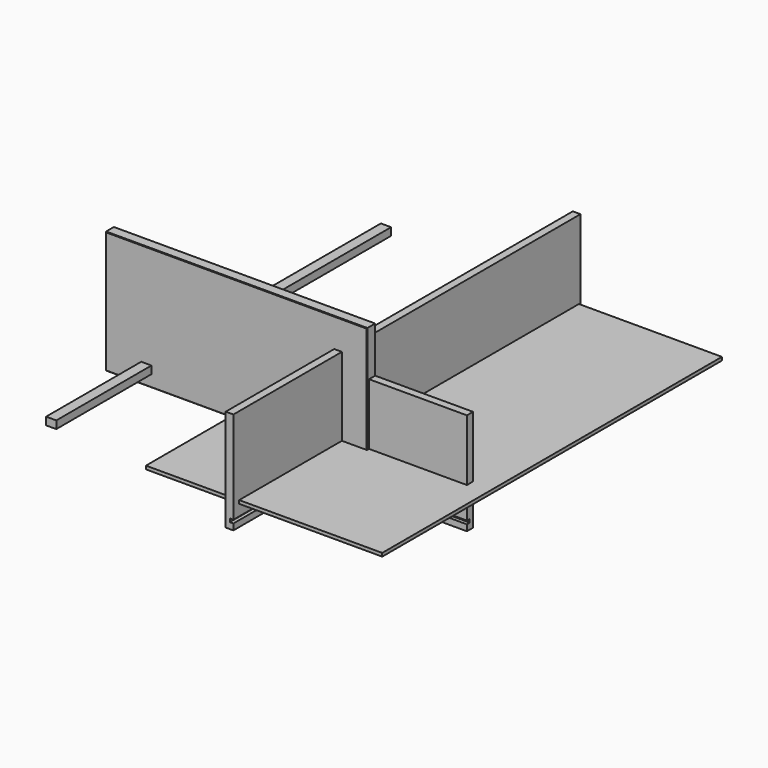
from build123d import *

# Parameters (mm, degrees)
F0_W      = 512
F0_H      = 240
F1_DEPTH  = 20
F2_SIZE   = 1
F3_W      = 850
F3_H      = 200
F4_DEPTH  = 15
F5_W      = 15
F5_H      = 6.5
F6_DEPTH  = 1000
F7_W      = 451
F7_H      = 200
F8_DEPTH  = 15
F9_W      = 17.3011739743
F9_H      = 6.5
F10_DEPTH = 1000
F11_W     = 463
F11_H     = 832
F12_DEPTH = 6.5
F13_W     = 20
F13_H     = 820
F14_DEPTH = 15


with BuildPart() as f1:
    # F0 (on Front) → F1 (new body)
    with BuildSketch(Plane.XZ):
        with Locations((-191.8205638528, 96.6834676266)):
            Rectangle(F0_W, F0_H)
    extrude(amount=F1_DEPTH)

    # F2
    f2_edges = [f1.edges().sort_by_distance(p)[0] for p in [
        (-191.820564, -20, -23.316532),
        (64.179436, -20, 96.683468),
        (-191.820564, -20, 216.683468),
        (-447.820564, -20, 96.683468),
    ]]
    chamfer(f2_edges, length=F2_SIZE)


with BuildPart() as f4:
    # F3 (on Right) → F4 (new body)
    with BuildSketch(Plane.YZ):
        with Locations((139.2540290207, 59.9439153292)):
            Rectangle(F3_W, F3_H)
    extrude(amount=F4_DEPTH)

    # F5 (on face) → F6 (cut)
    with BuildSketch(Plane.XZ.offset(285.7459709793)):
        with Locations((15.5, -24.8060846708)):
            Rectangle(F5_W, F5_H)
    extrude(amount=-F6_DEPTH, mode=Mode.SUBTRACT)


with BuildPart() as f8:
    # F7 (on Front) → F8 (new body)
    with BuildSketch(Plane.XZ):
        with Locations((30.3891174048, 26.7120815462)):
            Rectangle(F7_W, F7_H)
    extrude(amount=F8_DEPTH)

    # F9 (on face) → F10 (cut)
    with BuildSketch(Plane(origin=(-195.1108825952, 0, 0), x_dir=(0, -1, 0), z_dir=(-1, 0, 0))):
        with Locations((16.6505869871, -58.0379184538)):
            Rectangle(F9_W, F9_H)
    extrude(amount=-F10_DEPTH, mode=Mode.SUBTRACT)


with BuildPart() as f12:
    # F11 (on Top) → F12 (new body)
    with BuildSketch(Plane.XY):
        with Locations((63.7137074471, 144.4778356552)):
            Rectangle(F11_W, F11_H)
    extrude(amount=F12_DEPTH)


with BuildPart() as f14:
    # F13 (on Top) → F14 (new body)
    with BuildSketch(Plane.XY):
        with Locations((-368.2242131233, 156.9858825207)):
            Rectangle(F13_W, F13_H)
    extrude(amount=F14_DEPTH)


solid = Compound([f1.part, f4.part, f8.part, f12.part, f14.part])
